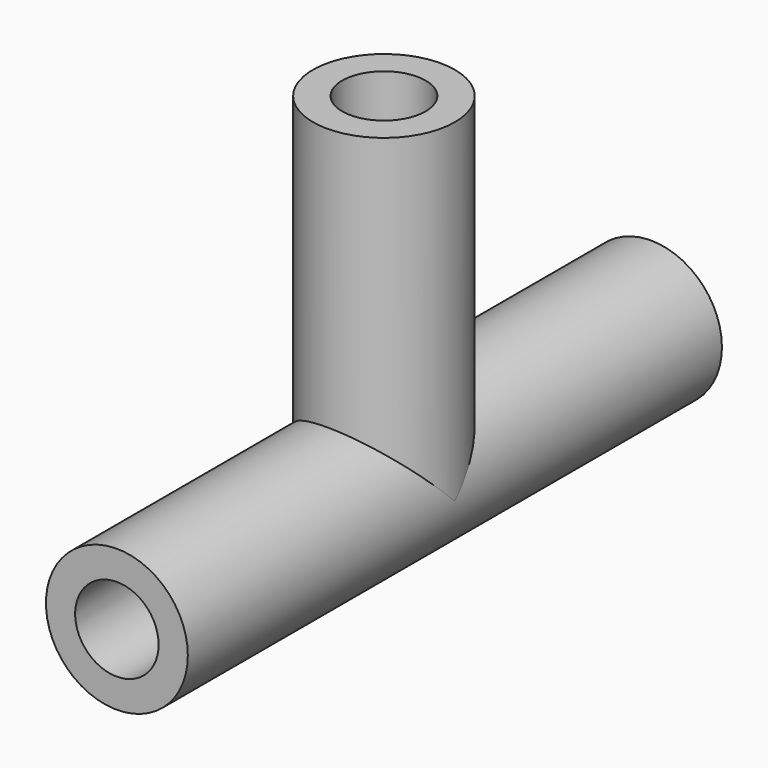
from build123d import *

# Parameters (mm, degrees)
F1_R     = 4.25
F2_DEPTH = 20
F0_R     = 4.25
F4_DEPTH = 20
F3_R     = 2.5
F5_DEPTH = 40
F6_R     = 2.5
F7_DEPTH = 20


with BuildPart() as f2:
    # F1 (on Front) → F2 (new body, symmetric)
    with BuildSketch(Plane.XZ):
        Circle(F1_R)
    extrude(amount=F2_DEPTH, both=True)

    # F0 (on Top) → F4 (join)
    with BuildSketch(Plane.XY):
        Circle(F0_R)
    extrude(amount=F4_DEPTH)

    # F3 (on face) → F5 (cut)
    with BuildSketch(Plane.XZ.offset(20)):
        Circle(F3_R)
    extrude(amount=-F5_DEPTH, mode=Mode.SUBTRACT)

    # F6 (on face) → F7 (cut)
    with BuildSketch(Plane.XY.offset(20)):
        Circle(F6_R)
    extrude(amount=-F7_DEPTH, mode=Mode.SUBTRACT)


solid = f2.part
